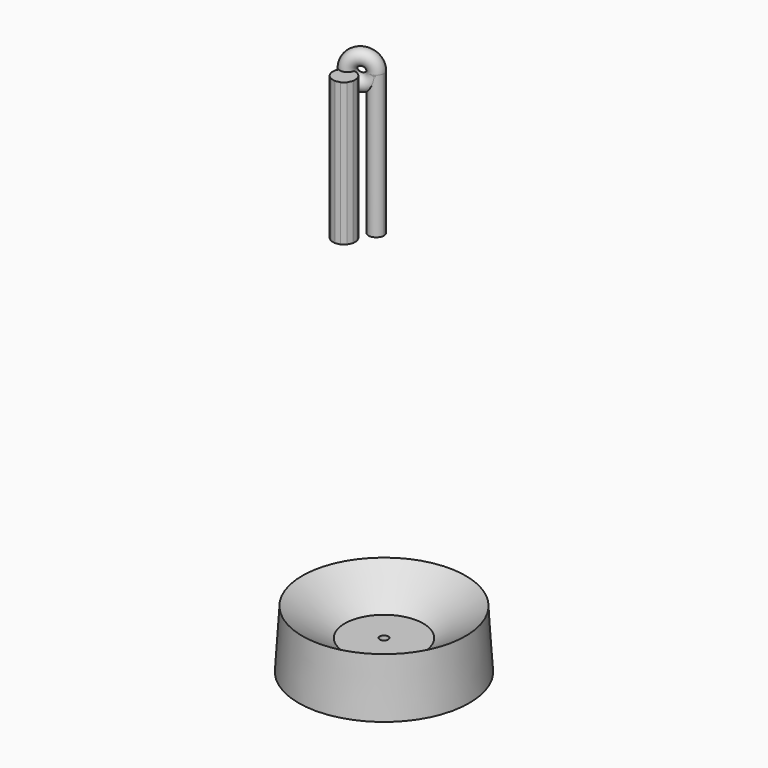
from build123d import *

# Parameters (mm, degrees)
F5_DEPTH  = 190.5
F5_FACE_R = 10.29673


with BuildPart() as f2:
    # F1 (on Right) → F2 (revolve)
    with BuildSketch(Plane.YZ):
        Polygon((-5.71775, -3.860109), (-5.71775, 12.121061), (-52.340601, 12.121061), (-44.647871, 7.007704), (-66.552435, -3.860109), align=None)
        Polygon((-68.288028, 12.121061), (-52.340601, 12.121061), (-108.991168, 49.776679), (-113.858538, -27.330739), (-66.552435, -3.860109), (-68.288028, -3.860109), align=None)
    revolve(axis=Axis((0, 0, -0.971727), (0, 0, -1)))


with BuildPart() as f5:
    # F4 (on offset) → F5 (new body)
    with BuildSketch(Plane.XY.offset(484.561061)):
        with BuildLine():
            ThreePointArc((-15.973499, -8.590515), (-5.419718, -9.068484), (0, 0))
            ThreePointArc((0, 0), (-15.173743, 9.068484), (-15.973499, -8.590515))
        make_face()
        Polygon((-17.522483, -20.401941), (-21.454777, -17.266041), (-22.826923, -16.171791), (-29.441452, -14.662068), (-36.05598, -16.171791), (-41.36042, -20.401941), (-44.304162, -26.514684), (-44.304162, -33.299318), (-41.36042, -39.412061), (-36.05598, -43.642211), (-29.441452, -45.151934), (-22.826923, -43.642211), (-17.522483, -39.412061), (-14.578741, -33.299318), (-14.578741, -26.514684), align=None)
    extrude(amount=F5_DEPTH)


with BuildPart() as f6:
    # F5_face (on face) → F6 (revolve)
    with BuildSketch(Plane(origin=(-10.29673, 0, 675.061061), x_dir=(1, 0, 0), z_dir=(0, 0, 1))):
        Circle(F5_FACE_R)
    revolve(axis=Axis((-16.050612, -23.458313, 675.061061), (0.433884, -0.900969, 0)))


solid = Compound([f2.part, f5.part, f6.part])
